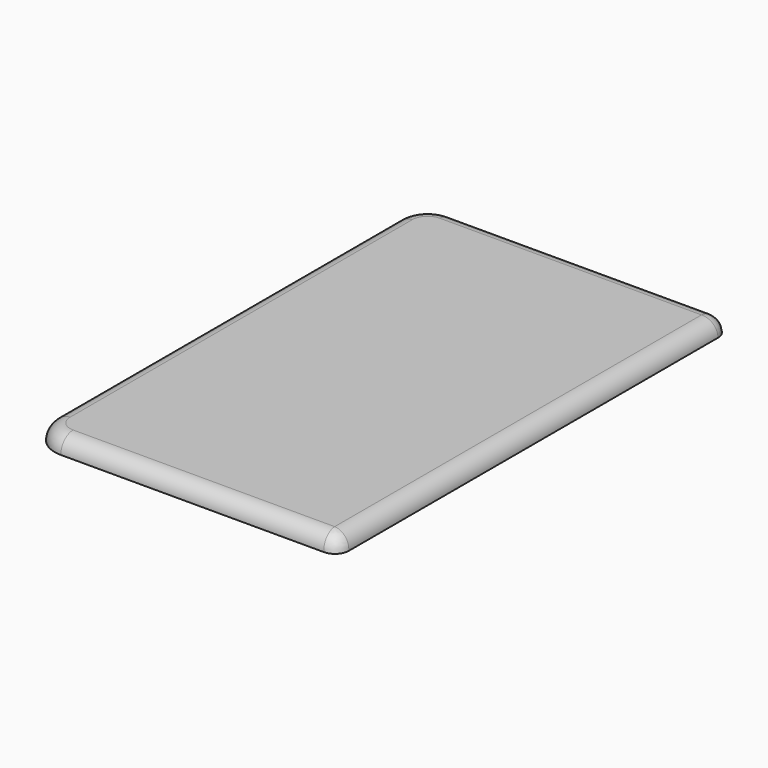
from build123d import *

# Parameters (mm, degrees)
BOX020_W     = 95
BOX020_H     = 155
BOX020_DEPTH = 5.1
FILLET016_R  = 3
FILLET017_R  = 8
FILLET018_R  = 4
BOX019_W     = 100
BOX019_H     = 159
BOX019_DEPTH = 5.1
FILLET012_R  = 10
FILLET013_R  = 4.5
FILLET014_R  = 5


with BuildPart() as fillet018:
    # Box020 → Box020 (new body)
    with BuildSketch(Plane(origin=(23, 7.5, 122.5), x_dir=(1, 0, 0), z_dir=(0, 0, 1))):
        with Locations((47.5, 77.5)):
            Rectangle(BOX020_W, BOX020_H)
    extrude(amount=BOX020_DEPTH)

    # Fillet016
    fillet016_edges = [fillet018.edges().sort_by_distance(p)[0] for p in [
        (118, 7.5, 125.05),
        (118, 162.5, 125.05),
    ]]
    fillet(fillet016_edges, radius=FILLET016_R)

    # Fillet017
    fillet017_edges = [fillet018.edges().sort_by_distance(p)[0] for p in [
        (23, 162.5, 125.05),
        (23, 7.5, 125.05),
    ]]
    fillet(fillet017_edges, radius=FILLET017_R)

    # Fillet018
    fillet018_edges = [fillet018.edges().sort_by_distance(p)[0] for p in [
        (23, 85, 127.6),
    ]]
    fillet(fillet018_edges, radius=FILLET018_R)


with BuildPart() as fillet018_1:
    # Fillet018 placement: moved
    add(fillet018.part.moved(Location((0, 0, -4))))


with BuildPart() as cut354:
    # Box019 → Box019 (new body)
    with BuildSketch(Plane(origin=(19.5, 5.5, 122.5), x_dir=(1, 0, 0), z_dir=(0, 0, 1))):
        with Locations((50, 79.5)):
            Rectangle(BOX019_W, BOX019_H)
    extrude(amount=BOX019_DEPTH)

    # Fillet012
    fillet012_edges = [cut354.edges().sort_by_distance(p)[0] for p in [
        (19.5, 5.5, 125.05),
        (19.5, 164.5, 125.05),
    ]]
    fillet(fillet012_edges, radius=FILLET012_R)

    # Fillet013
    fillet013_edges = [cut354.edges().sort_by_distance(p)[0] for p in [
        (119.5, 5.5, 125.05),
        (119.5, 164.5, 125.05),
    ]]
    fillet(fillet013_edges, radius=FILLET013_R)

    # Fillet014
    fillet014_edges = [cut354.edges().sort_by_distance(p)[0] for p in [
        (72.25, 5.5, 127.6),
        (119.5, 85, 127.6),
        (19.5, 85, 127.6),
        (72.25, 164.5, 127.6),
    ]]
    fillet(fillet014_edges, radius=FILLET014_R)


with BuildPart() as cut354_1:
    # Fillet014 placement: moved
    add(cut354.part.moved(Location((0.7, 0, -2))))

    # Cut014: cut Fillet018
    add(fillet018_1.part, mode=Mode.SUBTRACT)


solid = cut354_1.part
